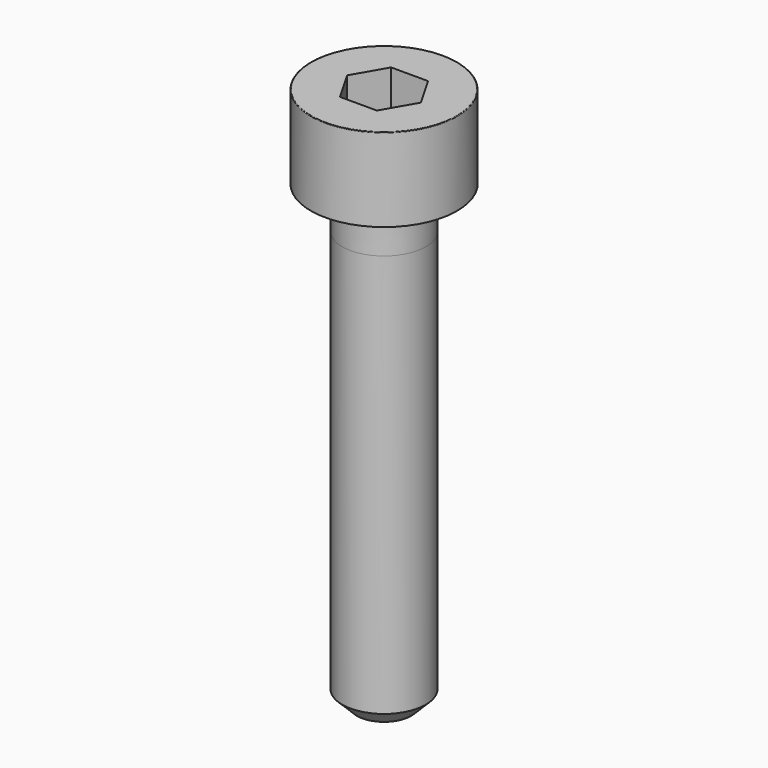
from build123d import *

# Parameters (mm, degrees)
POCKET_DEPTH = 3.06


with BuildPart() as part:
    # Sketch → Revolve (revolve)
    with BuildSketch(Plane.YZ):
        with BuildLine():
            Line((1.999, 0), (3.5, 0))
            Line((3.5, 0), (3.5, 3.97229))
            ThreePointArc((3.5, 3.97229), (3.491884, 3.991884), (3.47229, 4))
            Line((3.47229, 4), (0, 4))
            Line((0, -22), (0, 4))
            Line((1.3, -22), (0, -22))
            Line((2, -21.3), (1.3, -22))
            Line((2, -2), (2, -21.3))
            Line((1.999, 0), (2, -2))
        make_face()
    revolve(axis=Axis((0, 0, 0), (0, 0, 1)))

    # Sketch001 → Pocket (cut)
    with BuildSketch(Plane.XY.offset(4)):
        Polygon((1.766692, 0), (0.883346, 1.53), (-0.883346, 1.53), (-1.766692, 0), (-0.883346, -1.53), (0.883346, -1.53), align=None)
    extrude(amount=-POCKET_DEPTH, mode=Mode.SUBTRACT)


solid = part.part
